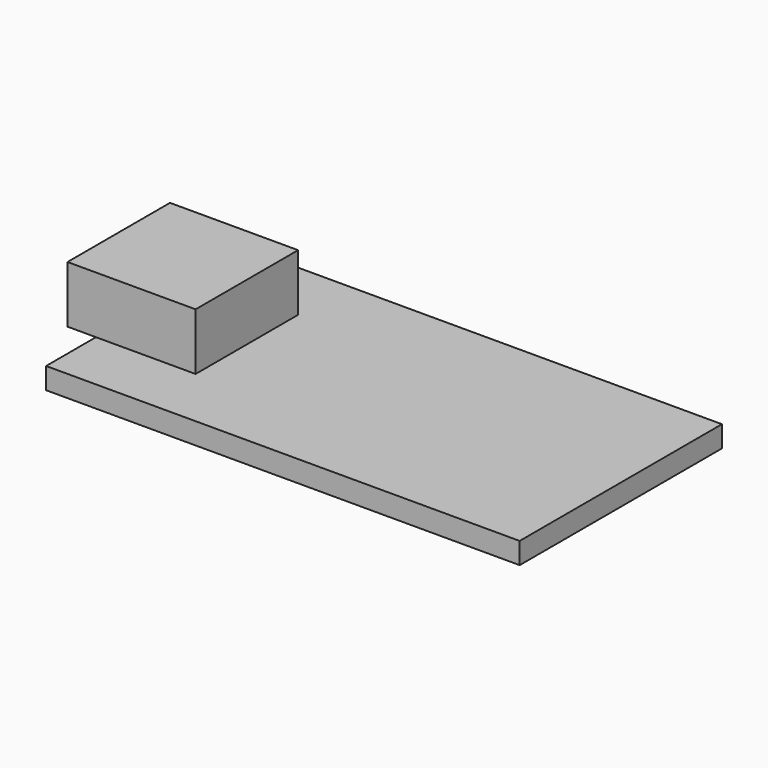
from build123d import *

# Parameters (mm, degrees)
F0_W      = 33.27
F0_H      = 17.76
F1_DEPTH  = 1.5
F2_W      = 9
F2_H      = 4
F3_DEPTH  = 2
F3_FACE_W = 9
F3_FACE_H = 4
F4_DEPTH  = 7


with BuildPart() as f1:
    # F0 (on Top) → F1 (new body)
    with BuildSketch(Plane.XY):
        Rectangle(F0_W, F0_H)
    extrude(amount=F1_DEPTH)



with BuildPart() as f3:
    # F2 (on face) → F3 (new body)
    with BuildSketch(Plane(origin=(-16.635, 0, 0), x_dir=(0, -1, 0), z_dir=(-1, 0, 0))):
        with Locations((0, 3.5)):
            Rectangle(F2_W, F2_H)
    extrude(amount=F3_DEPTH)


with BuildPart() as f1_1:
    add(f1.part)

    add(f3.part)  # F4 merges F3
    # F3_face (on face) → F4 (join)
    with BuildSketch(Plane(origin=(-16.635, 0, 3.5), x_dir=(0, -1, 0), z_dir=(1, 0, 0))):
        Rectangle(F3_FACE_W, F3_FACE_H)
    extrude(amount=F4_DEPTH)


solid = f1_1.part
